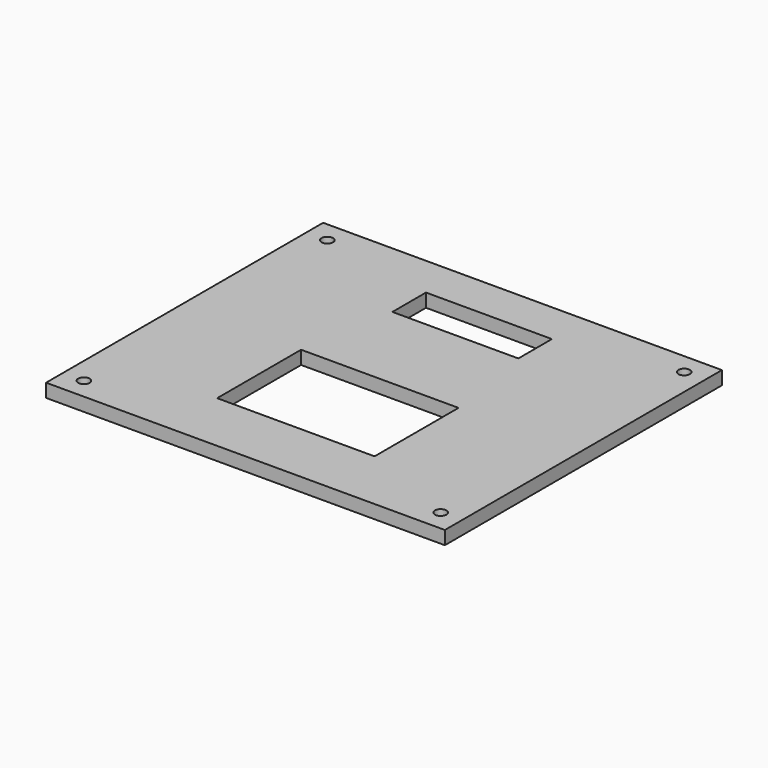
from build123d import *

# Parameters (mm, degrees)
F0_W     = 190
F0_H     = 165
F0_W_2   = 75
F0_H_2   = 50
F0_W_3   = 60
F0_H_3   = 20
F1_DEPTH = 6.4
F2_D     = 5.5


with BuildPart() as f1:
    # F0 (on Top) → F1 (new body)
    with BuildSketch(Plane.XY):
        Rectangle(F0_W, F0_H)
        with Locations((0, -27.5)):
            Rectangle(F0_W_2, F0_H_2, mode=Mode.SUBTRACT)
        with Locations((0, 52.5)):
            Rectangle(F0_W_3, F0_H_3, mode=Mode.SUBTRACT)
    extrude(amount=-F1_DEPTH)

    # F2 (through all)
    with Locations(Plane.XY):
        with Locations((84.999998, 72.499998), (-84.999998, 72.499998), (-84.999998, -72.499998), (84.999998, -72.499998)):
            Hole(F2_D / 2)


solid = f1.part
